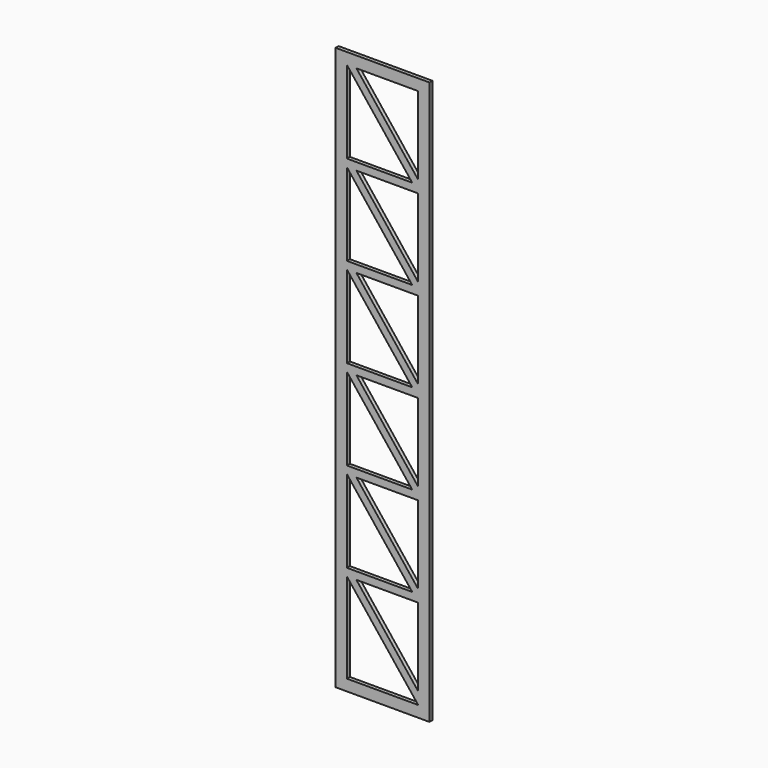
from build123d import *

# Parameters (mm, degrees)
F1_W     = 50
F1_H     = 300
F2_DEPTH = 2


with BuildPart() as f2:
    # F1 (on face) → F2 (new body)
    with BuildSketch(Plane.XZ):
        with Locations((25, 150)):
            Rectangle(F1_W, F1_H)
        Polygon((44, 6), (6, 6), (6, 54), (6, 58), (6, 102), (6, 106), (6, 150), (6, 154), (6, 198), (6, 202), (6, 246), (6, 250), (6, 294), (11.101743, 294), (44, 294), (44, 252.444306), (44, 246), (44, 204.444306), (44, 198), (44, 156.444306), (44, 150), (44, 108.444306), (44, 102), (44, 60.444306), (44, 54), (44, 12.444306), align=None, mode=Mode.SUBTRACT)
        Polygon((40.833333, 154), (44, 150), (44, 156.444306), (11.101743, 198), (6, 198), align=None)
        Polygon((6, 202), (6, 198), (11.101743, 198), (44, 198), (40.833333, 202), align=None)
        Polygon((40.833333, 202), (44, 198), (44, 204.444306), (11.101743, 246), (6, 246), align=None)
        Polygon((6, 154), (6, 150), (11.101743, 150), (44, 150), (40.833333, 154), align=None)
        Polygon((40.833333, 106), (44, 102), (44, 108.444306), (11.101743, 150), (6, 150), align=None)
        Polygon((6, 106), (6, 102), (11.101743, 102), (44, 102), (40.833333, 106), align=None)
        Polygon((40.833333, 58), (44, 54), (44, 60.444306), (11.101743, 102), (6, 102), align=None)
        Polygon((6, 250), (6, 246), (11.101743, 246), (44, 246), (40.833333, 250), align=None)
        Polygon((6, 54), (44, 6), (44, 12.444306), (11.101743, 54), align=None)
        Polygon((6, 58), (6, 54), (11.101743, 54), (44, 54), (40.833333, 58), align=None)
        Polygon((40.833333, 250), (44, 246), (44, 252.444306), (11.101743, 294), (6, 294), align=None)
    extrude(amount=F2_DEPTH)


solid = f2.part
